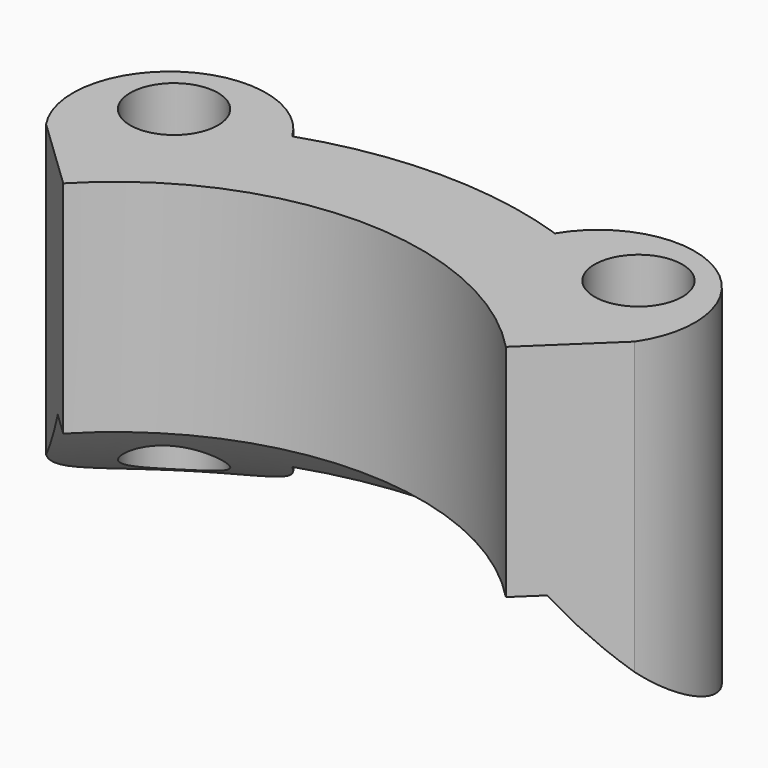
from build123d import *

# Parameters (mm, degrees)
SKETCH004_R  = 5.175
PAD002_DEPTH = 41.4


with BuildPart() as chamfer_cutout_left:
    # Sketch005 → Revolution001 (revolve)
    with BuildSketch(Plane.YZ):
        with BuildLine():
            Line((36.1, 15.427249), (39.9, 15.427249))
            ThreePointArc((39.9, 15.427249), (48.355241, 6.793042), (58.35, 0))
            Line((58.35, 0), (58.35, -5))
            Line((58.35, -5), (36.1, -5))
            Line((36.1, -5), (36.1, 15.427249))
        make_face()
    revolve(axis=Axis((0, 0, 0), (0, 0, 1)))


with BuildPart() as spacer_left:
    # Sketch004 → Pad002 (new body)
    with BuildSketch(Plane.XY):
        with BuildLine():
            ThreePointArc((-15.484484, 45.433806), (-31.397174, 49.18272), (-34.694729, 33.170405))
            Line((-26.093327, 24.946909), (-34.694729, 33.170405))
            ThreePointArc((26.093327, 24.946909), (0, 36.1), (-26.093327, 24.946909))
            Line((26.093327, 24.946909), (34.694729, 33.170405))
            ThreePointArc((34.694729, 33.170405), (31.397174, 49.18272), (15.484484, 45.433806))
            ThreePointArc((15.484484, 45.433806), (0, 48), (-15.484484, 45.433806))
        make_face()
        with Locations((-27.375, 42.882106)):
            Circle(SKETCH004_R, mode=Mode.SUBTRACT)
        with Locations((27.375, 42.882106)):
            Circle(SKETCH004_R, mode=Mode.SUBTRACT)
    extrude(amount=PAD002_DEPTH)

    # Cut001: cut chamfer_cutout_left
    add(chamfer_cutout_left.part, mode=Mode.SUBTRACT)


solid = spacer_left.part
